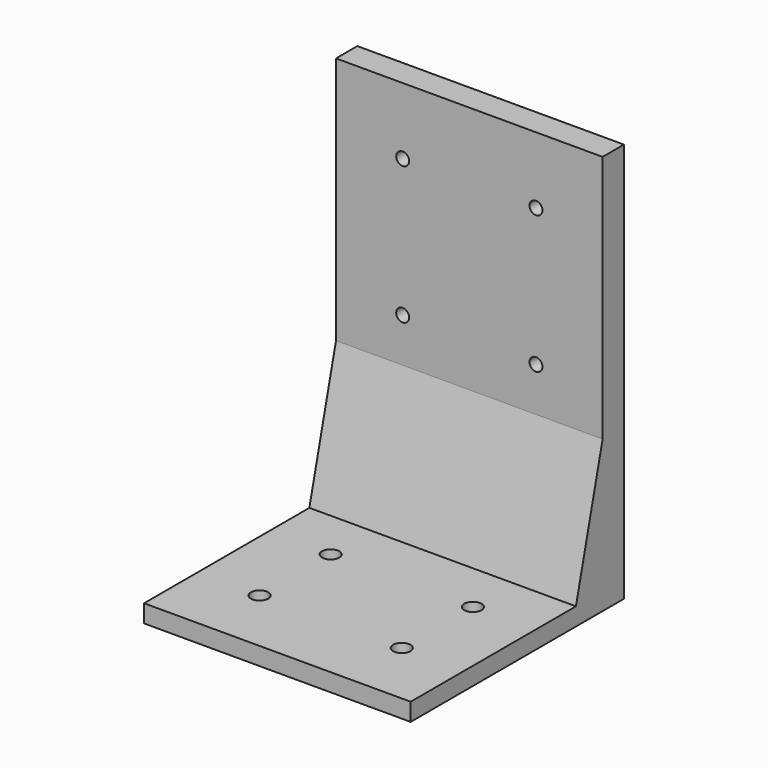
from build123d import *

# Parameters (mm, degrees)
F0_W     = 60
F0_H     = 60
F0_R     = 1.95
F1_DEPTH = 4
F2_W     = 60
F2_H     = 86
F2_R     = 1.45
F3_DEPTH = 6
F5_DEPTH = 60


with BuildPart() as f1:
    # F0 (on Top) → F1 (new body)
    with BuildSketch(Plane.XY):
        Rectangle(F0_W, F0_H)
        with Locations((-16, -15)):
            Circle(F0_R, mode=Mode.SUBTRACT)
        with Locations((16, -15)):
            Circle(F0_R, mode=Mode.SUBTRACT)
        with Locations((-16, 5)):
            Circle(F0_R, mode=Mode.SUBTRACT)
        with Locations((16, 5)):
            Circle(F0_R, mode=Mode.SUBTRACT)
    extrude(amount=F1_DEPTH)

    # F2 (on face) → F3 (join)
    with BuildSketch(Plane(origin=(0, 30, 0), x_dir=(-1, 0, 0), z_dir=(0, 1, 0))):
        with Locations((0, 47)):
            Rectangle(F2_W, F2_H)
        with Locations((-15, 44)):
            Circle(F2_R, mode=Mode.SUBTRACT)
        with Locations((15, 44)):
            Circle(F2_R, mode=Mode.SUBTRACT)
        with Locations((-15, 75)):
            Circle(F2_R, mode=Mode.SUBTRACT)
        with Locations((15, 75)):
            Circle(F2_R, mode=Mode.SUBTRACT)
    extrude(amount=-F3_DEPTH)

    # F4 (on face) → F5 (join)
    with BuildSketch(Plane.YZ.offset(30)):
        Polygon((24, 34.079062), (16.5, 4), (24, 4), align=None)
    extrude(amount=-F5_DEPTH)


solid = f1.part
